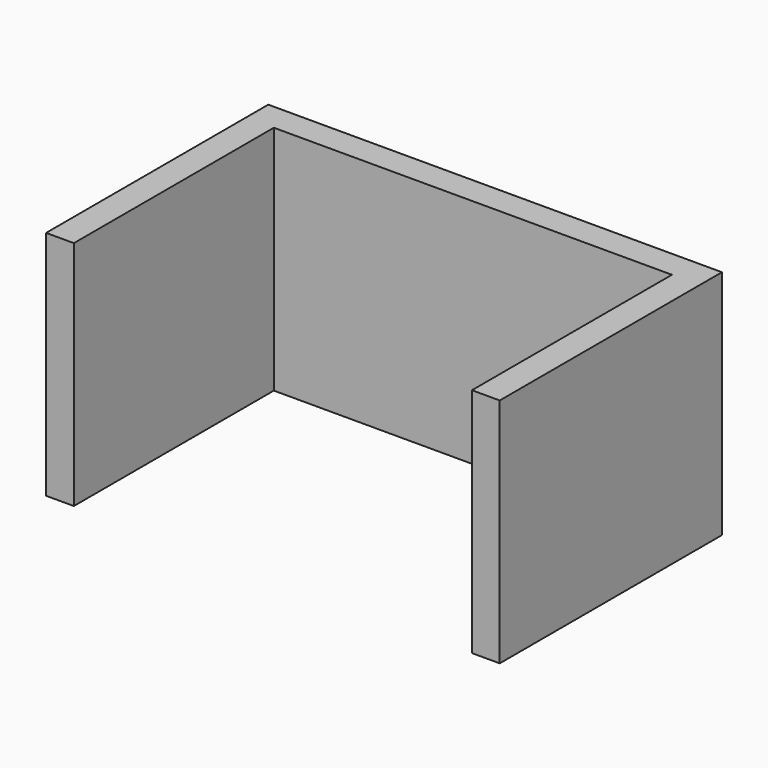
from build123d import *

# Parameters (mm, degrees)
F0_W     = 43
F0_H     = 3
F1_DEPTH = 25


with BuildPart() as f1:
    # F0 (on Top) → F1 (new body)
    with BuildSketch(Plane.XY):
        with Locations((9.041131, 14.730754)):
            Rectangle(F0_W, F0_H)
        Polygon((-12.458869, 13.230754), (-12.458869, 16.230754), (-15.458869, 16.230754), (-15.458869, -13.769246), (-12.458869, -13.769246), align=None)
        Polygon((33.541131, 16.230754), (30.541131, 16.230754), (30.541131, 13.230754), (30.541131, -13.769246), (33.541131, -13.769246), align=None)
    extrude(amount=F1_DEPTH)


solid = f1.part
